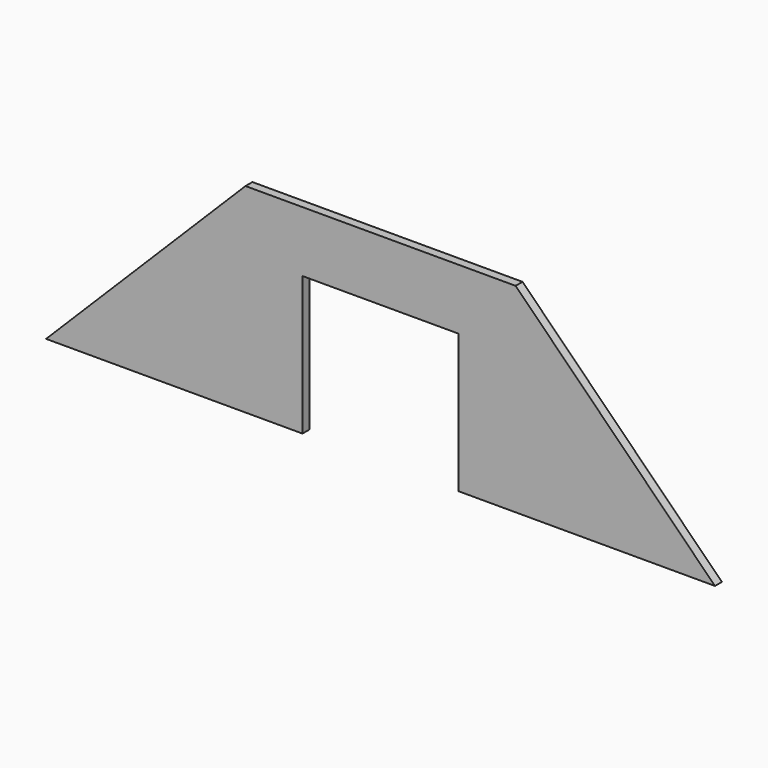
from build123d import *

# Parameters (mm, degrees)
F1_DEPTH = 3.175
F2_W     = 57.15
F2_H     = 101.6
F3_DEPTH = 6.351


with BuildPart() as f1:
    # F0 (on Front) → F1 (new body, symmetric)
    with BuildSketch(Plane.XZ):
        Polygon((98.933, 0), (-98.933, 0), (-244.983, -146.05), (244.983, -146.05), align=None)
    extrude(amount=F1_DEPTH, both=True)

    # F2 (on face) → F3 (cut, through all)
    with BuildSketch(Plane.XZ.offset(3.175)):
        with Locations((28.575, -95.25)):
            Rectangle(F2_W, F2_H)
        with Locations((-28.575, -95.25)):
            Rectangle(F2_W, F2_H)
    extrude(amount=-F3_DEPTH, mode=Mode.SUBTRACT)


solid = f1.part
